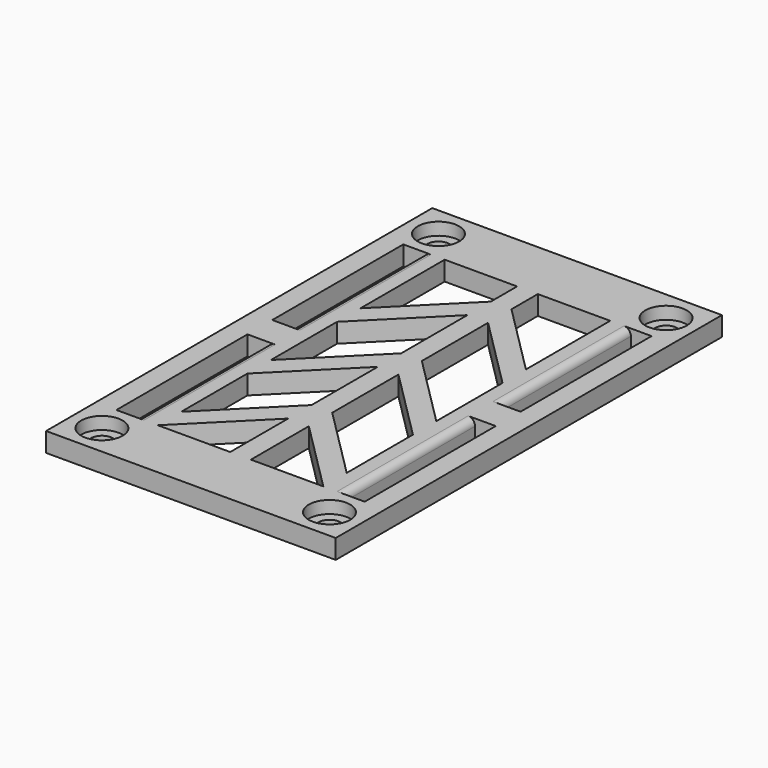
from build123d import *

# Parameters (mm, degrees)
F1_W     = 42
F1_H     = 70
F1_R     = 1.6
F1_W_2   = 3
F1_H_2   = 23.75
F2_DEPTH = 2.8
F3_R     = 3
F4_DEPTH = 1.8
F5_R     = 1


with BuildPart() as f2:
    # F1 (on face) → F2 (new body)
    with BuildSketch(Plane.XY):
        Rectangle(F1_W, F1_H)
        with Locations((-16.5, -30.5)):
            Circle(F1_R, mode=Mode.SUBTRACT)
        Polygon((-12, -26), (-1.5, -15.5), (-1.5, -26), align=None, mode=Mode.SUBTRACT)
        with Locations((-16.5, -14.125)):
            Rectangle(F1_W_2, F1_H_2, mode=Mode.SUBTRACT)
        Polygon((-1.5, 0.742641), (-1.5, -11.257359), (-12, -21.757359), (-12, -9.757359), align=None, mode=Mode.SUBTRACT)
        Polygon((1.5, -26), (1.5, -15.5), (12, -26), align=None, mode=Mode.SUBTRACT)
        with Locations((16.5, -30.5)):
            Circle(F1_R, mode=Mode.SUBTRACT)
        Polygon((12, -21.757359), (1.5, -11.257359), (1.5, 0.742641), (12, -9.757359), align=None, mode=Mode.SUBTRACT)
        with Locations((16.5, -14.125)):
            Rectangle(F1_W_2, F1_H_2, mode=Mode.SUBTRACT)
        with Locations((-16.5, 14.125)):
            Rectangle(F1_W_2, F1_H_2, mode=Mode.SUBTRACT)
        Polygon((-1.5, 16.985281), (-1.5, 4.985281), (-12, -5.514719), (-12, 6.485281), align=None, mode=Mode.SUBTRACT)
        with Locations((-16.5, 30.5)):
            Circle(F1_R, mode=Mode.SUBTRACT)
        Polygon((-12, 10.727922), (-12, 26), (-1.5, 26), (-1.5, 21.227922), align=None, mode=Mode.SUBTRACT)
        Polygon((12, -5.514719), (1.5, 4.985281), (1.5, 16.985281), (12, 6.485281), align=None, mode=Mode.SUBTRACT)
        with Locations((16.5, 14.125)):
            Rectangle(F1_W_2, F1_H_2, mode=Mode.SUBTRACT)
        Polygon((1.5, 26), (12, 26), (12, 10.727922), (1.5, 21.227922), align=None, mode=Mode.SUBTRACT)
        with Locations((16.5, 30.5)):
            Circle(F1_R, mode=Mode.SUBTRACT)
    extrude(amount=F2_DEPTH)

    # F3 (on face) → F4 (cut)
    with BuildSketch(Plane.XY.offset(2.8)):
        with Locations((-16.5, -30.5)):
            Circle(F3_R)
        with Locations((16.5, -30.5)):
            Circle(F3_R)
        with Locations((-16.5, 30.5)):
            Circle(F3_R)
        with Locations((16.5, 30.5)):
            Circle(F3_R)
    extrude(amount=-F4_DEPTH, mode=Mode.SUBTRACT)

    # F5
    f5_edges = [f2.edges().sort_by_distance(p)[0] for p in [
        (-15, 14.125, 2.8),
        (15, 14.125, 2.8),
        (-15, -14.125, 2.8),
        (15, -14.125, 2.8),
    ]]
    fillet(f5_edges, radius=F5_R)


solid = f2.part
